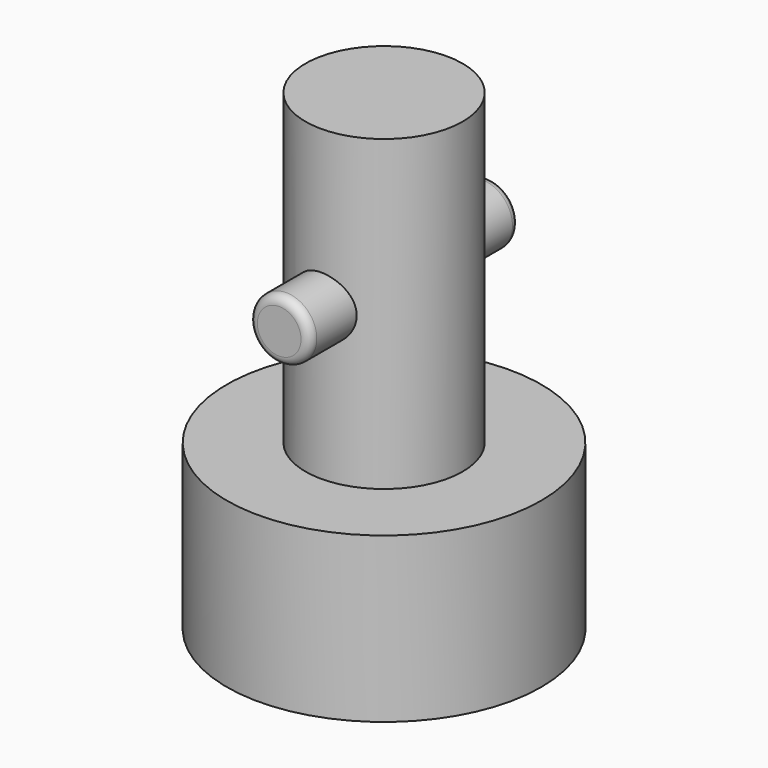
from build123d import *

# Parameters (mm, degrees)
F0_R      = 9
F1_DEPTH  = 45
F2_R      = 4.5
F3_DEPTH  = 25
F6_DEPTH  = 25
F7_R      = 1.75
F8_DEPTH  = 7.5
F9_R      = 0.5
F10_R     = 0.5
F11_DEPTH = 32
F12_DEPTH = 32.36752
F13_DEPTH = 35.60573


with BuildPart() as f1:
    # F0 (on Top) → F1 (new body)
    with BuildSketch(Plane.XY):
        Circle(F0_R)
    extrude(amount=F1_DEPTH)

    # F2 (on face) → F3 (join)
    with BuildSketch(Plane.XY.offset(45)):
        Circle(F2_R)
    extrude(amount=F3_DEPTH)

    # F6 (add): a face of the model
    f6_faces = [f1.faces().sort_by_distance(p)[0] for p in [
        (0, 0, 70),
    ]]
    extrude(f6_faces, amount=F6_DEPTH)

    # F7 (on line) → F8 (join, symmetric)
    with BuildSketch(Plane(origin=(0, 0, 0), x_dir=(-1, 0, 0), z_dir=(0, 1, 0))):
        with Locations((0, 53.652189672)):
            Circle(F7_R)
    extrude(amount=F8_DEPTH, both=True)

    # F9
    f9_edges = [f1.edges().sort_by_distance(p)[0] for p in [
        (1.75, -7.5, 53.65219),
    ]]
    fillet(f9_edges, radius=F9_R)

    # F10
    f10_edges = [f1.edges().sort_by_distance(p)[0] for p in [
        (1.75, 7.5, 53.65219),
    ]]
    fillet(f10_edges, radius=F10_R)

    # F11 (add): a face of the model
    f11_faces = [f1.faces().sort_by_distance(p)[0] for p in [
        (0, 0, 95),
    ]]
    extrude(f11_faces, amount=-F11_DEPTH)

    # F12 (cut): a face of the model
    f12_faces = [f1.faces().sort_by_distance(p)[0] for p in [
        (0, 0, 95),
    ]]
    extrude(f12_faces, amount=-F12_DEPTH, mode=Mode.SUBTRACT)

    # F0 (on Top) → F13 (cut)
    with BuildSketch(Plane.XY):
        Circle(F0_R)
    extrude(amount=F13_DEPTH, mode=Mode.SUBTRACT)


solid = f1.part
